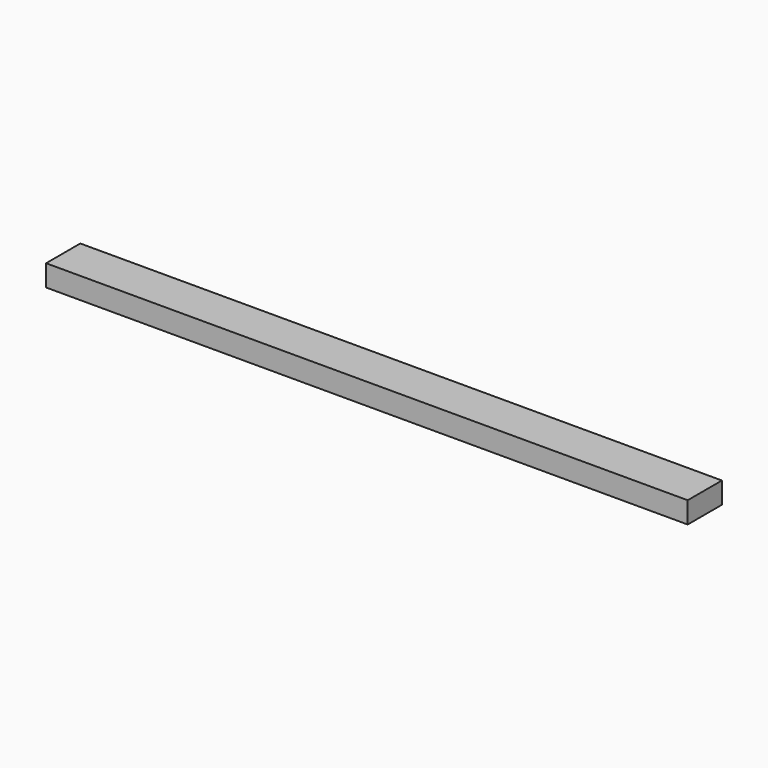
from build123d import *

# Parameters (mm, degrees)
SKETCH_W  = 20
SKETCH_H  = 10
PAD_DEPTH = 300


with BuildPart() as part:
    # Sketch → Pad (new body)
    with BuildSketch(Plane.YZ):
        with Locations((50, 0)):
            Rectangle(SKETCH_W, SKETCH_H)
    extrude(amount=PAD_DEPTH)


solid = part.part
